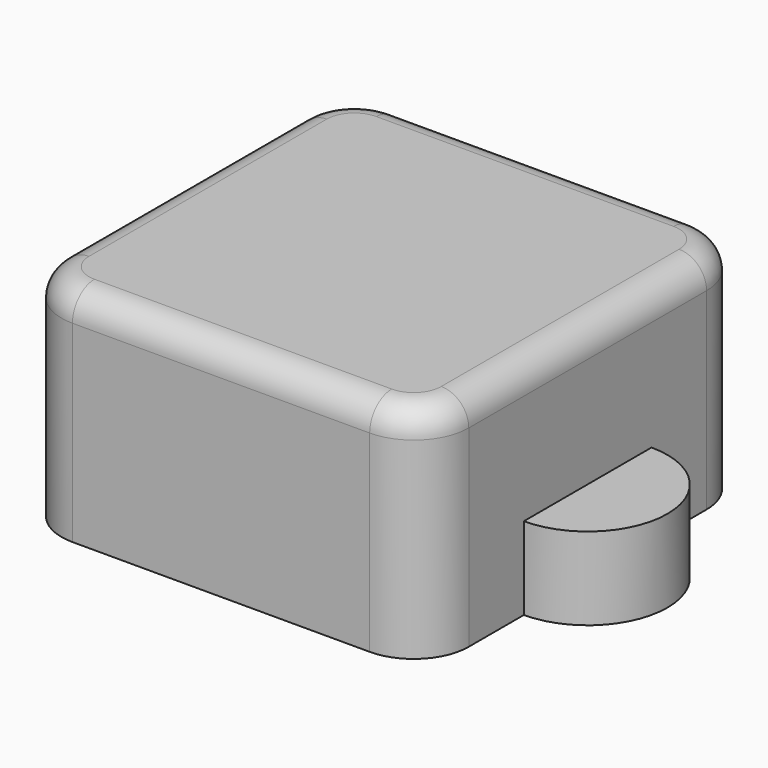
from build123d import *

# Parameters (mm, degrees)
SKETCH_W     = 14.8
SKETCH_H     = 14.8
PAD_DEPTH    = 8
SKETCH001_R  = 2.9
PAD001_DEPTH = 3
FILLET_R     = 2
FILLET001_R  = 1


with BuildPart() as part:
    # Sketch → Pad (new body)
    with BuildSketch(Plane.XY):
        Rectangle(SKETCH_W, SKETCH_H)
    extrude(amount=PAD_DEPTH)

    # Sketch001 → Pad001 (new body)
    with BuildSketch(Plane(origin=(0, 0, 0), x_dir=(1, 0, 0), z_dir=(0, 0, -1))):
        with Locations((-7.4, 0)):
            Circle(SKETCH001_R)
        with Locations((7.4, 0)):
            Circle(SKETCH001_R)
    extrude(amount=-PAD001_DEPTH)

    # Fillet
    fillet_edges = [part.edges().sort_by_distance(p)[0] for p in [
        (7.4, 7.4, 4),
        (7.4, -7.4, 4),
        (-7.4, 7.4, 4),
        (-7.4, -7.4, 4),
    ]]
    fillet(fillet_edges, radius=FILLET_R)

    # Fillet001
    fillet001_edges = [part.edges().sort_by_distance(p)[0] for p in [
        (0, 7.4, 8),
        (6.814214, 6.814214, 8),
        (7.4, 0, 8),
        (6.814214, -6.814214, 8),
        (0, -7.4, 8),
        (-6.814214, -6.814214, 8),
        (-7.4, 0, 8),
        (-6.814214, 6.814214, 8),
    ]]
    fillet(fillet001_edges, radius=FILLET001_R)


solid = part.part
